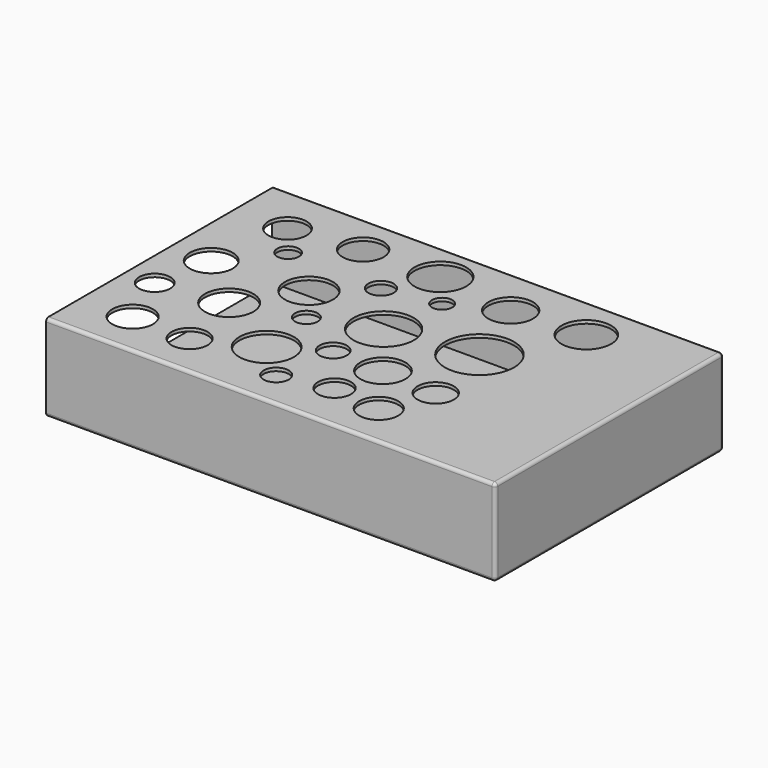
from build123d import *

# Parameters (mm, degrees)
SKETCH001_W    = 139
SKETCH001_H    = 87
PAD_DEPTH      = 25
THICKNESS_T    = 1
SKETCH002_R    = 5.947053
SKETCH002_R_2  = 6.391543
SKETCH002_R_3  = 7.479707
SKETCH002_R_4  = 6.690044
SKETCH002_R_5  = 7.551468
SKETCH002_R_6  = 6.341994
SKETCH002_R_7  = 8.509486
SKETCH002_R_8  = 9.409582
SKETCH002_R_9  = 8.069876
SKETCH002_R_10 = 7.030828
SKETCH002_R_11 = 5.146618
SKETCH002_R_12 = 6.982672
SKETCH002_R_13 = 7.752117
SKETCH002_R_14 = 10.787845
SKETCH002_R_15 = 5.65876
SKETCH002_R_16 = 3.93116
SKETCH002_R_17 = 3.377122
SKETCH002_R_18 = 5.622868
SKETCH002_R_19 = 3.905324
SKETCH002_R_20 = 4.228889
SKETCH002_R_21 = 3.528588
SKETCH002_R_22 = 3.16034
SKETCH002_R_23 = 6.106178
SKETCH002_R_24 = 4.85306
POCKET_DEPTH   = 5


with BuildPart() as part:
    # Sketch001 → Pad (new body)
    with BuildSketch(Plane.XY):
        with Locations((-29.136072, -13.994338)):
            Rectangle(SKETCH001_W, SKETCH001_H)
    extrude(amount=PAD_DEPTH)

    # Thickness
    thickness_openings = [part.faces().sort_by_distance(p)[0] for p in [
        (-98.636072, -13.994338, 12.5),
    ]]
    offset(amount=THICKNESS_T, openings=thickness_openings)

    # Sketch002 (on Face14 of Thickness) → Pocket (cut)
    with BuildSketch(Plane.XY.offset(26)):
        with Locations((-82.334571, 15.216334)):
            Circle(SKETCH002_R)
        with Locations((-61.021297, 18.021215)):
            Circle(SKETCH002_R_2)
        with Locations((-57.73288, -7.189993)):
            Circle(SKETCH002_R_3)
        with Locations((-86.232513, -9.656311)):
            Circle(SKETCH002_R_4)
        with Locations((-68.946266, -24.274019)):
            Circle(SKETCH002_R_5)
        with Locations((-82.723099, -44.663734)):
            Circle(SKETCH002_R_6)
        with Locations((-47.27071, -36.765015)):
            Circle(SKETCH002_R_7)
        with Locations((-30.922209, -11.599332)):
            Circle(SKETCH002_R_8)
        with Locations((-37.351395, 18.526012)):
            Circle(SKETCH002_R_9)
        with Locations((-17.329054, -28.866299)):
            Circle(SKETCH002_R_10)
        with Locations((-20.819183, -43.377895)):
            Circle(SKETCH002_R_11)
        with Locations((-12.920469, 15.403262)):
            Circle(SKETCH002_R_12)
        with Locations((9.489837, 16.872791)):
            Circle(SKETCH002_R_13)
        with Locations((-4.286991, -7.558129)):
            Circle(SKETCH002_R_14)
        with Locations((0, -29.968445)):
            Circle(SKETCH002_R_15)
        with Locations((-44.858665, 4.777251)):
            Circle(SKETCH002_R_16)
        with Locations((-74.249245, 5.328322)):
            Circle(SKETCH002_R_17)
        with Locations((-64.697304, -45.003048)):
            Circle(SKETCH002_R_18)
        with Locations((-36.225178, -46.839958)):
            Circle(SKETCH002_R_19)
        with Locations((-33.469814, -28.103462)):
            Circle(SKETCH002_R_20)
        with Locations((-49.450947, -18.551527)):
            Circle(SKETCH002_R_21)
        with Locations((-28.142773, 7.716309)):
            Circle(SKETCH002_R_22)
        with Locations((-5.732456, -45.003048)):
            Circle(SKETCH002_R_23)
        with Locations((-89.679298, -27.368698)):
            Circle(SKETCH002_R_24)
    extrude(amount=-POCKET_DEPTH, mode=Mode.SUBTRACT)


solid = part.part
